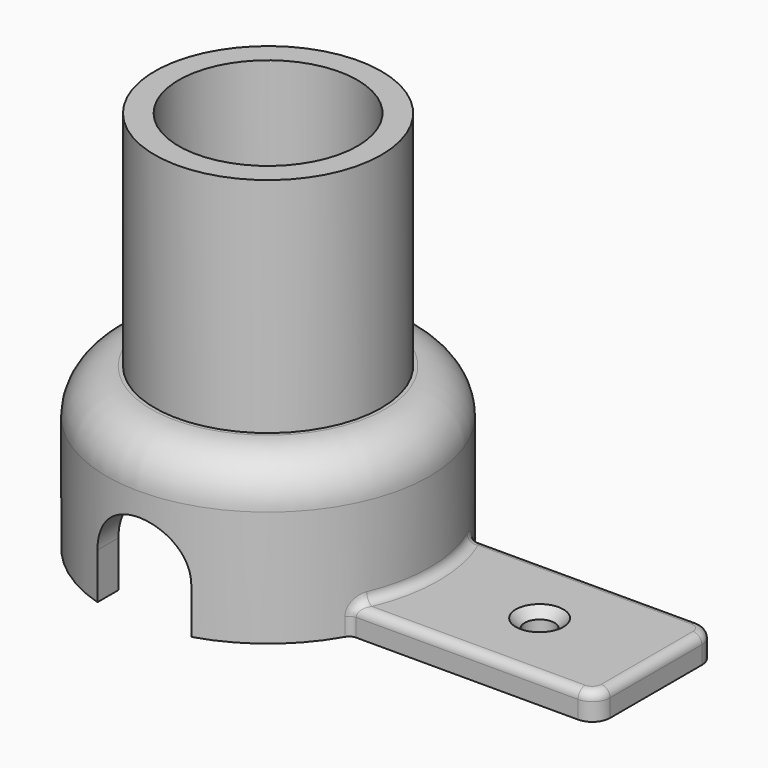
from build123d import *

# Parameters (mm, degrees)
PAD_DEPTH       = 3
SKETCH001_R     = 18.140088
PAD001_DEPTH    = 18
SKETCH002_R     = 12.72475
PAD002_DEPTH    = 25
FILLET_R        = 5
SKETCH003_R     = 10.036661
POCKET_DEPTH    = 39
SKETCH004_R     = 15.342719
POCKET001_DEPTH = 15
SKETCH005_R     = 1.671602
POCKET002_DEPTH = 9
CHAMFER_SIZE    = 1
POCKET003_DEPTH = 24
FILLET001_R     = 2
FILLET002_R     = 1


with BuildPart() as part:
    # Sketch → Pad (new body)
    with BuildSketch(Plane.XY):
        with BuildLine():
            ThreePointArc((15.819927, 8.439493), (-17.930285, 0), (15.819927, -8.439493))
            Line((43.550961, -8.439493), (15.819927, -8.439493))
            Line((43.550961, 8.439493), (43.550961, -8.439493))
            Line((15.819927, 8.439493), (43.550961, 8.439493))
        make_face()
    extrude(amount=PAD_DEPTH)

    # Sketch001 (on Face6 of Pad) → Pad001 (join)
    with BuildSketch(Plane.XY):
        Circle(SKETCH001_R)
    extrude(amount=PAD001_DEPTH)

    # Sketch002 (on Face9 of Pad001) → Pad002 (join)
    with BuildSketch(Plane.XY.offset(18)):
        Circle(SKETCH002_R)
    extrude(amount=PAD002_DEPTH)

    # Fillet
    fillet_edges = [part.edges().sort_by_distance(p)[0] for p in [
        (-18.140088, 0, 18),
    ]]
    fillet(fillet_edges, radius=FILLET_R)

    # Sketch003 (on Face12 of Fillet) → Pocket (cut)
    with BuildSketch(Plane.XY.offset(43)):
        Circle(SKETCH003_R)
    extrude(amount=-POCKET_DEPTH, mode=Mode.SUBTRACT)

    # Sketch004 (on Face10 of Pocket) → Pocket001 (cut)
    with BuildSketch(Plane(origin=(0, 0, 0), x_dir=(1, 0, 0), z_dir=(0, 0, -1))):
        Circle(SKETCH004_R)
    extrude(amount=-POCKET001_DEPTH, mode=Mode.SUBTRACT)

    # Sketch005 (on Face3 of Pocket001) → Pocket002 (cut)
    with BuildSketch(Plane.XY.offset(3)):
        with Locations((30.484385, 0)):
            Circle(SKETCH005_R)
    extrude(amount=-POCKET002_DEPTH, mode=Mode.SUBTRACT)

    # Chamfer
    chamfer_edges = [part.edges().sort_by_distance(p)[0] for p in [
        (28.812783, 0, 3),
    ]]
    chamfer(chamfer_edges, length=CHAMFER_SIZE)

    # Sketch006 → Pocket003 (cut)
    with BuildSketch(Plane.XZ):
        with BuildLine():
            ThreePointArc((5.267581, 5.153194), (0, 10.420775), (-5.267581, 5.153194))
            Line((-5.267581, 5.153194), (-5.267581, -7.655472))
            ThreePointArc((-5.267581, -7.655472), (0, -12.923053), (5.267581, -7.655472))
            Line((5.267581, -7.655472), (5.267581, 5.153194))
        make_face()
    extrude(amount=POCKET003_DEPTH, mode=Mode.SUBTRACT)

    # Fillet001
    fillet001_edges = [part.edges().sort_by_distance(p)[0] for p in [
        (43.550961, -8.439493, 1.5),
        (43.550961, 8.439493, 1.5),
    ]]
    fillet(fillet001_edges, radius=FILLET001_R)

    # Fillet002
    fillet002_edges = [part.edges().sort_by_distance(p)[0] for p in [
        (28.804144, -8.439493, 3),
        (28.804144, 8.439493, 3),
        (17.611702, -4.346347, 3),
        (17.611702, 4.346347, 3),
        (16.057327, -8.439493, 1.5),
        (42.965175, -7.853707, 3),
        (43.550961, 0, 3),
        (42.965175, 7.853707, 3),
        (16.057327, 8.439493, 1.5),
    ]]
    fillet(fillet002_edges, radius=FILLET002_R)


solid = part.part
